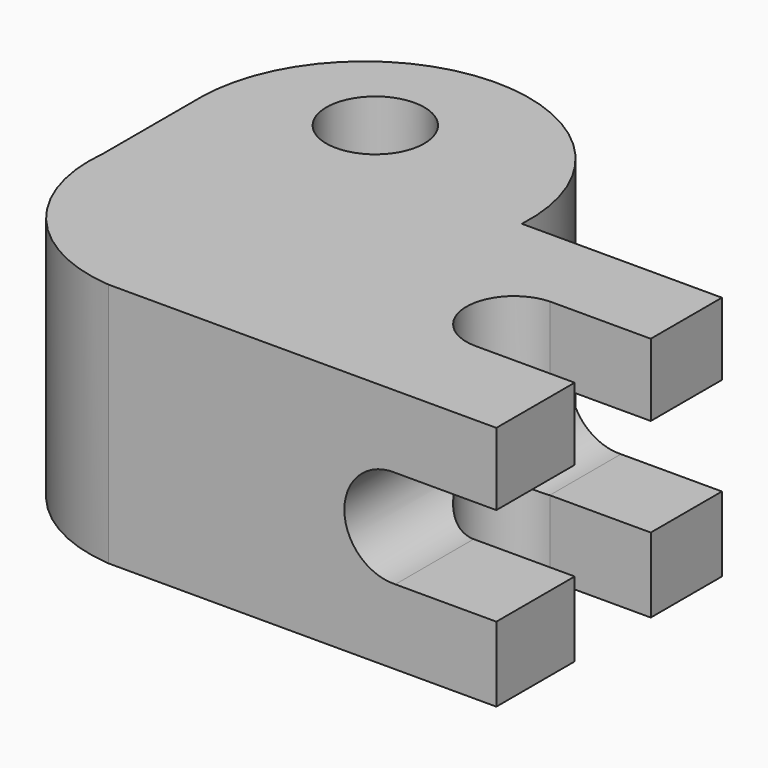
from build123d import *

# Parameters (mm, degrees)
SKETCH_R        = 9.985111
PAD_DEPTH       = 50
POCKET_DEPTH    = 50.001
POCKET001_DEPTH = 92.854719


with BuildPart() as part:
    # Sketch → Pad (new body)
    with BuildSketch(Plane.XY):
        with BuildLine():
            ThreePointArc((69.801898, 27.806633), (37.384611, 63.206397), (2.690253, 30.035244))
            Line((2.690253, 30.035244), (2.690253, 5.084221))
            ThreePointArc((2.690253, 5.084221), (9.791486, -18.336627), (31.504385, -29.628822))
            Line((31.504385, -29.628822), (110.546837, -29.628822))
            Line((110.546837, 27.806633), (110.546837, -29.628822))
            Line((69.801898, 27.806633), (110.546837, 27.806633))
        make_face()
        with Locations((30.425318, 39.701904)):
            Circle(SKETCH_R, mode=Mode.SUBTRACT)
    extrude(amount=PAD_DEPTH)

    # Sketch001 (on Face9 of Pad) → Pocket (cut, through all)
    with BuildSketch(Plane.XY.offset(50)):
        with BuildLine():
            ThreePointArc((89.995199, 9.686634), (80.747748, 0), (89.995199, -9.686634))
            Line((119.296471, -9.686634), (89.995199, -9.686634))
            Line((119.296471, 9.686634), (119.296471, -9.686634))
            Line((89.995199, 9.686634), (119.296471, 9.686634))
        make_face()
    extrude(amount=-POCKET_DEPTH, mode=Mode.SUBTRACT)

    # Sketch002 (on Face12 of Pocket) → Pocket001 (cut, through all)
    with BuildSketch(Plane.XZ.offset(29.628822)):
        with BuildLine():
            ThreePointArc((90.116445, 35.24875), (79.587337, 25.3247), (89.96843, 15.245922))
            Line((121.41404, 15.245922), (89.96843, 15.245922))
            Line((121.41404, 35.24875), (121.41404, 15.245922))
            Line((90.116445, 35.24875), (121.41404, 35.24875))
        make_face()
    extrude(amount=-POCKET001_DEPTH, mode=Mode.SUBTRACT)


solid = part.part
